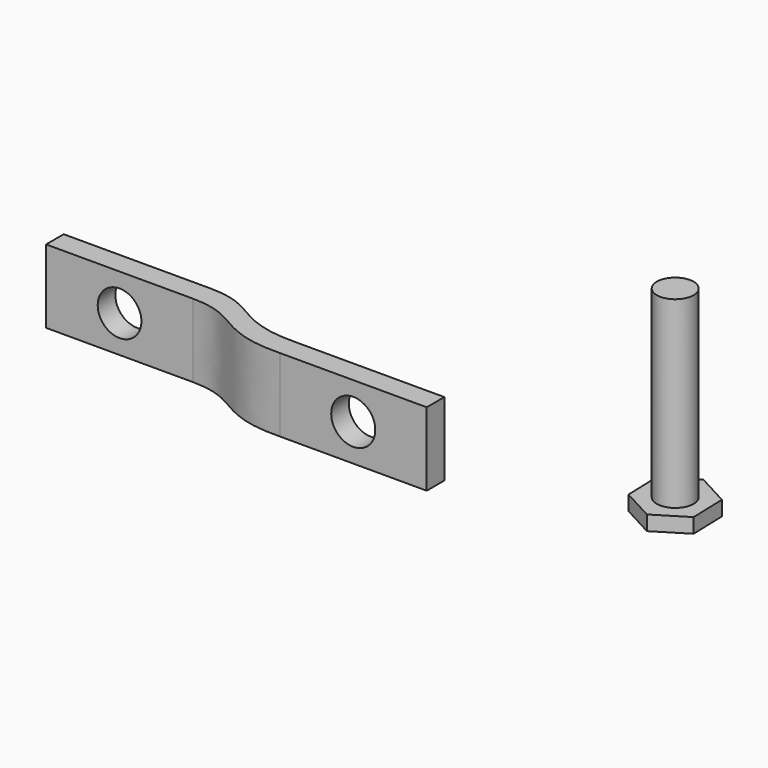
from build123d import *

# Parameters (mm, degrees)
F1_DEPTH = 10
F2_R     = 2.974937
F3_DEPTH = 3
F4_R     = 3
F5_DEPTH = 3
F7_DEPTH = 2
F8_R     = 2.5
F9_DEPTH = 25


with BuildPart() as f1:
    # F0 (on Top) → F1 (new body)
    with BuildSketch(Plane.XY):
        with BuildLine():
            Line((-29.778655, 22.370057), (-49.778655, 22.370057))
            Line((-49.778655, 22.370057), (-49.778655, 19.370057))
            Line((-49.778655, 19.370057), (-29.778655, 19.370057))
            add(Edge.make_bspline(
                [(-29.778655, 19.370057), (-23.134362, 19.370057), (-23.529627, 15.161893), (-14.778655, 15.370057)],
                knots=[0, 0, 0, 0, 15.524175, 15.524175, 15.524175, 15.524175], degree=3))
            Line((-14.778655, 15.370057), (5.221345, 15.370057))
            Line((5.221345, 15.370057), (5.221345, 18.370057))
            Line((5.221345, 18.370057), (-14.778655, 18.370057))
            add(Edge.make_bspline(
                [(-29.778655, 22.370057), (-23.134362, 22.370057), (-23.529627, 18.161893), (-14.778655, 18.370057)],
                knots=[0, 0, 0, 0, 15.524175, 15.524175, 15.524175, 15.524175], degree=3))
        make_face()
    extrude(amount=F1_DEPTH)

    # F2 (on face) → F3 (cut, through all)
    with BuildSketch(Plane(origin=(0, 22.370057, 0), x_dir=(-1, 0, 0), z_dir=(0, 1, 0))):
        with Locations((39.778655, 5)):
            Circle(F2_R)
    extrude(amount=-F3_DEPTH, mode=Mode.SUBTRACT)

    # F4 (on face) → F5 (cut, through all)
    with BuildSketch(Plane(origin=(0, 18.370057, 0), x_dir=(-1, 0, 0), z_dir=(0, 1, 0))):
        with Locations((4.778655, 5)):
            Circle(F4_R)
    extrude(amount=-F5_DEPTH, mode=Mode.SUBTRACT)


with BuildPart() as f7:
    # F6 (on Top) → F7 (new body)
    with BuildSketch(Plane.XY):
        Polygon((29.007556, 32.718519), (24.753465, 30.091217), (24.90173, 25.093416), (29.304085, 22.722916), (33.558176, 25.350218), (33.409911, 30.348019), align=None)
    extrude(amount=F7_DEPTH)

    # F8 (on face) → F9 (join)
    with BuildSketch(Plane.XY.offset(2)):
        with Locations((29.155821, 27.720718)):
            Circle(F8_R)
    extrude(amount=F9_DEPTH)


solid = Compound([f1.part, f7.part])
